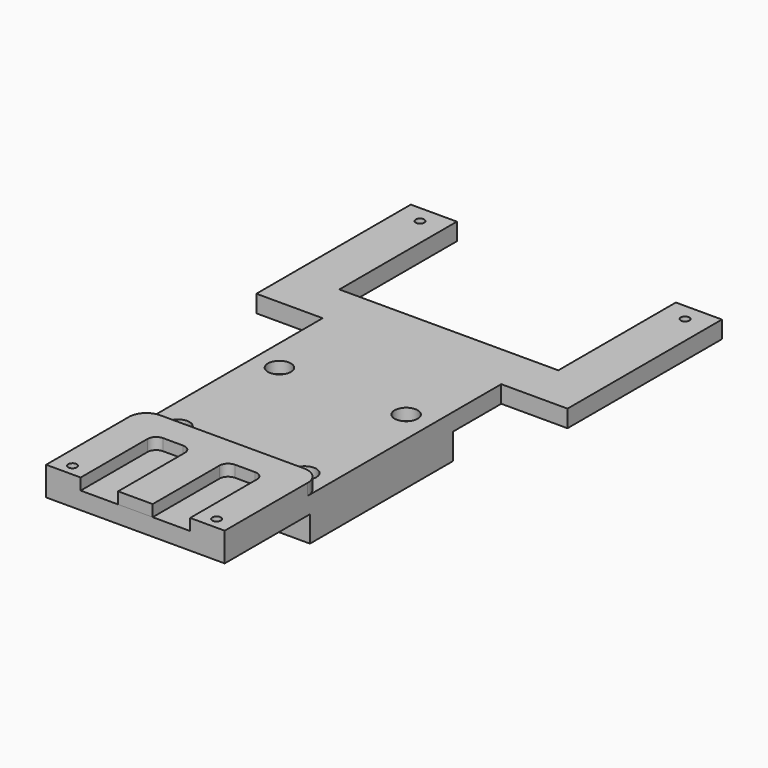
from build123d import *

# Parameters (mm, degrees)
SKETCH_R        = 1.5
PAD_DEPTH       = 6
PAD001_DEPTH    = 4
SKETCH002_R     = 1.5
POCKET_DEPTH    = 10
SKETCH003_W     = 62
SKETCH003_H     = 62
PAD002_DEPTH    = 9
SKETCH004_R     = 2
POCKET001_DEPTH = 15
SKETCH005_R     = 4
POCKET002_DEPTH = 4


with BuildPart() as part:
    # Sketch → Pad (new body)
    with BuildSketch(Plane.XY):
        Polygon((-38, 29), (38, 29), (38, 80), (54, 80), (54, 13), (31, 13), (31, -107), (-31, -107), (-31, 13), (-54, 13), (-54, 80), (-38, 80), align=None)
        with Locations((46, 74)):
            Circle(SKETCH_R, mode=Mode.SUBTRACT)
        with Locations((-46, 74)):
            Circle(SKETCH_R, mode=Mode.SUBTRACT)
    extrude(amount=PAD_DEPTH)

    # Sketch001 (on Face16 of Pad) → Pad001 (join)
    with BuildSketch(Plane.XY.offset(6)):
        with BuildLine():
            Line((31, -71), (31, -107))
            Line((19, -107), (31, -107))
            Line((19, -78.000015), (19, -107))
            ThreePointArc((19, -78.000015), (18.12132, -75.878696), (16.000001, -75.000016))
            Line((8.999999, -75.000016), (16.000001, -75.000016))
            ThreePointArc((8.999999, -75.000016), (6.878678, -75.878697), (6, -78.000019))
            Line((6, -107.000009), (6, -78.000019))
            Line((-6, -107.000009), (6, -107.000009))
            Line((-6, -78.000019), (-6, -107.000009))
            ThreePointArc((-6, -78.000019), (-6.878676, -75.878693), (-8.999999, -75.000009))
            Line((-16.000001, -75.000009), (-8.999999, -75.000009))
            ThreePointArc((-16.000001, -75.000009), (-18.12132, -75.878689), (-19, -78.000009))
            Line((-19, -107), (-19, -78.000009))
            Line((-31, -107), (-19, -107))
            Line((-31, -107), (-31, -71))
            ThreePointArc((-25, -65), (-29.242641, -66.757359), (-31, -71))
            Line((-25, -65), (25, -65))
            ThreePointArc((31, -71), (29.242641, -66.757359), (25, -65))
        make_face()
    extrude(amount=PAD001_DEPTH)

    # Sketch002 (on Face27 of Pad001) → Pocket (cut)
    with BuildSketch(Plane.XY.offset(10)):
        with Locations((-25, -103)):
            Circle(SKETCH002_R)
        with Locations((25, -103)):
            Circle(SKETCH002_R)
    extrude(amount=-POCKET_DEPTH, mode=Mode.SUBTRACT)

    # Sketch003 (on Face4 of Pocket) → Pad002 (join)
    with BuildSketch(Plane(origin=(0, 0, 0), x_dir=(1, 0, 0), z_dir=(0, 0, -1))):
        with Locations((0, 39)):
            Rectangle(SKETCH003_W, SKETCH003_H)
    extrude(amount=PAD002_DEPTH)

    # Sketch004 (on Face25 of Pad002) → Pocket001 (cut)
    with BuildSketch(Plane(origin=(0, 0, -9), x_dir=(1, 0, 0), z_dir=(0, 0, -1))):
        with Locations((-22, 61)):
            Circle(SKETCH004_R)
        with Locations((22, 61)):
            Circle(SKETCH004_R)
        with Locations((22, 17)):
            Circle(SKETCH004_R)
        with Locations((-22, 17)):
            Circle(SKETCH004_R)
    extrude(amount=-POCKET001_DEPTH, mode=Mode.SUBTRACT)

    # Sketch005 (on Face5 of Pocket001) → Pocket002 (cut)
    with BuildSketch(Plane.XY.offset(6)):
        with Locations((-22, -61)):
            Circle(SKETCH005_R)
        with Locations((22, -61)):
            Circle(SKETCH005_R)
        with Locations((22, -17)):
            Circle(SKETCH005_R)
        with Locations((-22, -17)):
            Circle(SKETCH005_R)
    extrude(amount=-POCKET002_DEPTH, mode=Mode.SUBTRACT)


solid = part.part
